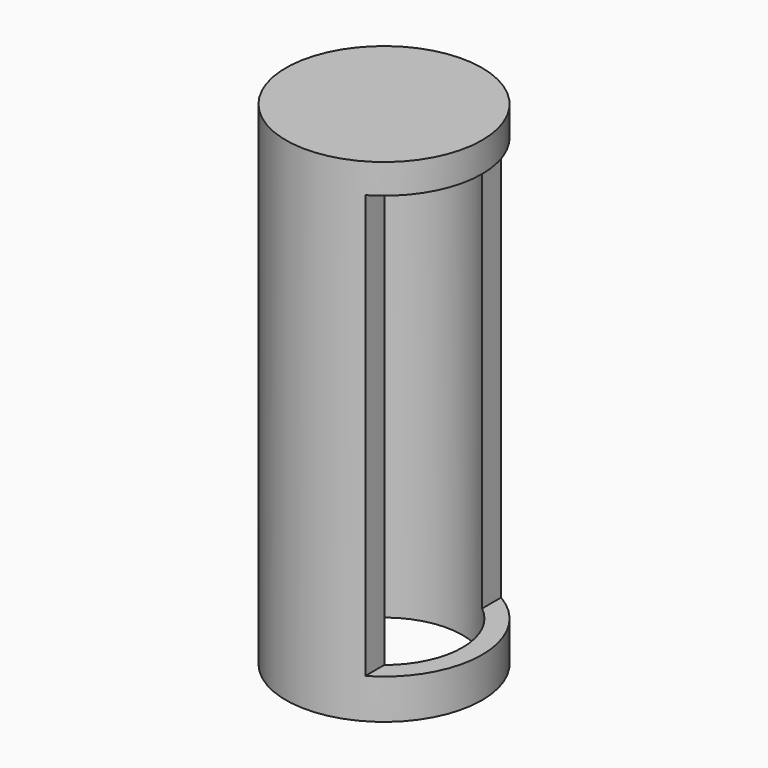
from build123d import *

# Parameters (mm, degrees)
F0_R     = 12.7
F1_DEPTH = 63.82626
F3_T     = -2.54
F4_W     = 43.020739
F4_H     = 54.811081
F5_DEPTH = 45.41777
F2_W     = 40.954981
F2_H     = 44.655449
F6_DEPTH = 29.8618


with BuildPart() as f1:
    # F0 (on Top) → F1 (new body)
    with BuildSketch(Plane.XY):
        with Locations((-51.784314, 43.91994)):
            Circle(F0_R)
    extrude(amount=F1_DEPTH)

    # F3
    f3_openings = [f1.faces().sort_by_distance(p)[0] for p in [
        (-51.784314, 43.91994, 0),
    ]]
    offset(amount=F3_T, openings=f3_openings)

    # F4 (on Right) → F5 (cut)
    with BuildSketch(Plane.YZ):
        with Locations((47.886142, 32.577515)):
            Rectangle(F4_W, F4_H)
    extrude(amount=-F5_DEPTH, mode=Mode.SUBTRACT)

    # F2 (on Front) → F6 (cut)
    with BuildSketch(Plane.XZ):
        with Locations((-53.447423, 32.679513)):
            Rectangle(F2_W, F2_H)
    extrude(amount=-F6_DEPTH, mode=Mode.SUBTRACT)


solid = f1.part
